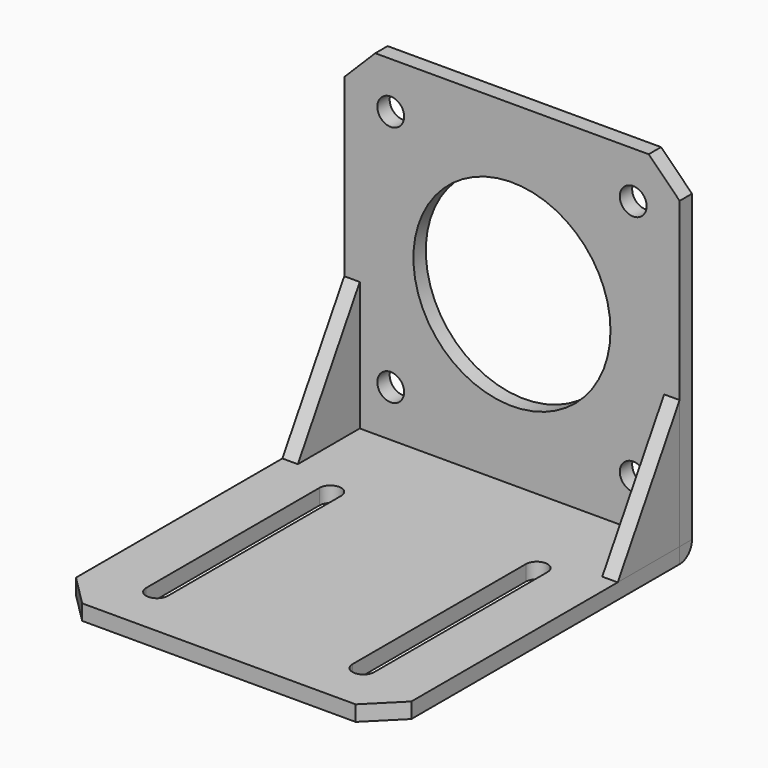
from build123d import *

# Parameters (mm, degrees)
PAD_DEPTH     = 3
SKETCH001_R   = 2.6
SKETCH001_R_2 = 19.1
PAD001_DEPTH  = 3
SKETCH002_W   = 3
SKETCH002_H   = 3
PAD002_DEPTH  = 65
FILLET_R      = 2.99
PAD003_DEPTH  = 3
PAD004_DEPTH  = 3


with BuildPart() as slots:
    # Sketch → Pad (new body)
    with BuildSketch(Plane.XY):
        Polygon((65, 6), (65, 71), (0, 71), (0, 6), (6, 0), (59, 0), align=None)
        with BuildLine():
            ThreePointArc((50.4, 10), (52.5, 7.9), (54.6, 10))
            Line((54.6, 10), (54.6, 52))
            ThreePointArc((54.6, 52), (52.5, 54.1), (50.4, 52))
            Line((50.4, 10), (50.4, 52))
        make_face(mode=Mode.SUBTRACT)
        with BuildLine():
            ThreePointArc((14.6, 52), (12.5, 54.1), (10.4, 52))
            Line((10.4, 10), (10.4, 52))
            ThreePointArc((10.4, 10), (12.5, 7.9), (14.6, 10))
            Line((14.6, 10), (14.6, 52))
        make_face(mode=Mode.SUBTRACT)
    extrude(amount=PAD_DEPTH)


with BuildPart() as motor_holes:
    # Sketch001 → Pad001 (new body)
    with BuildSketch(Plane.XZ):
        Polygon((0, 3), (65, 3), (65, 62), (59, 68), (6, 68), (0, 62), align=None)
        with Locations((9, 59)):
            Circle(SKETCH001_R, mode=Mode.SUBTRACT)
        with Locations((9, 12)):
            Circle(SKETCH001_R, mode=Mode.SUBTRACT)
        with Locations((56, 59)):
            Circle(SKETCH001_R, mode=Mode.SUBTRACT)
        with Locations((56, 12)):
            Circle(SKETCH001_R, mode=Mode.SUBTRACT)
        with Locations((32.5, 35.5)):
            Circle(SKETCH001_R_2, mode=Mode.SUBTRACT)
    extrude(amount=PAD001_DEPTH)


with BuildPart() as motor_holes_1:
    # Body001 placement: moved
    add(motor_holes.part.moved(Location((0, 74, 0))))


with BuildPart() as body002:
    # Sketch002 → Pad002 (new body)
    with BuildSketch(Plane.YZ):
        with Locations((1.5, 1.5)):
            Rectangle(SKETCH002_W, SKETCH002_H)
    extrude(amount=PAD002_DEPTH)

    # Fillet
    fillet_edges = [body002.edges().sort_by_distance(p)[0] for p in [
        (32.5, 3, 0),
    ]]
    fillet(fillet_edges, radius=FILLET_R)


with BuildPart() as body002_1:
    # Body002 placement: moved
    add(body002.part.moved(Location((0, 71, 0))))


with BuildPart() as support:
    # Sketch003 → Pad003 (new body)
    with BuildSketch(Plane.YZ):
        Polygon((0, 3), (15, 3), (15, 28), align=None)
    extrude(amount=PAD003_DEPTH)


with BuildPart() as support_1:
    # Body003 placement: moved
    add(support.part.moved(Location((62, 56, 0))))


with BuildPart() as support001:
    # Sketch004 → Pad004 (new body)
    with BuildSketch(Plane.YZ):
        Polygon((0, 3), (15, 3), (15, 28), align=None)
    extrude(amount=PAD004_DEPTH)


with BuildPart() as support001_1:
    # Body004 placement: moved
    add(support001.part.moved(Location((0, 56, 0))))


solid = Compound([slots.part, motor_holes_1.part, body002_1.part, support_1.part, support001_1.part])
